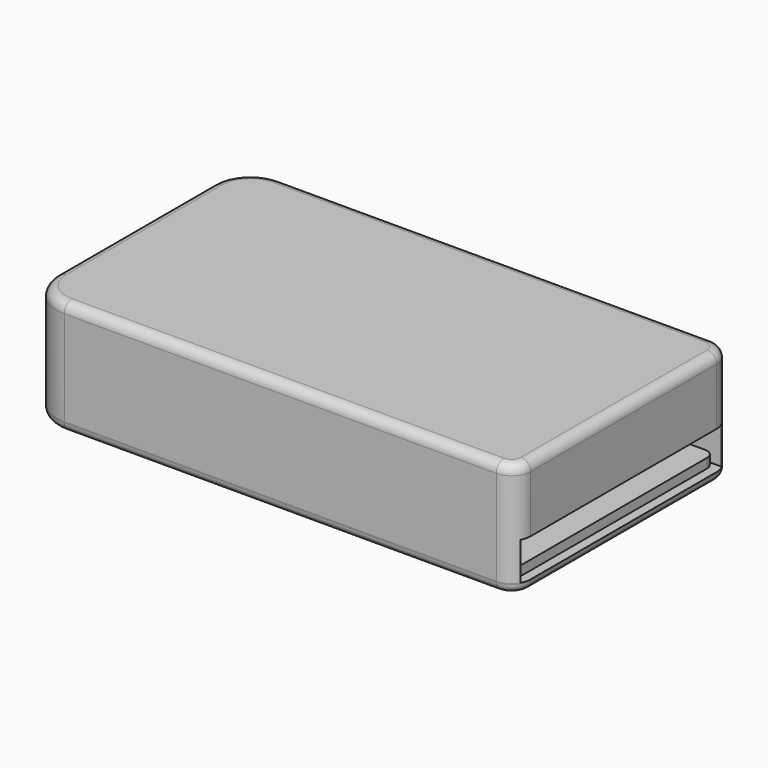
from build123d import *

# Parameters (mm, degrees)
PAD_DEPTH       = 10
THICKNESS_T     = 1
SKETCH001_W     = 10
SKETCH001_H     = 7
PAD001_DEPTH    = 1.6
SKETCH002_W     = 24.5
SKETCH002_H     = 4
POCKET_DEPTH    = 1
POCKET001_DEPTH = 5
SKETCH006_W     = 26.5
SKETCH006_H     = 4
POCKET002_DEPTH = 5
PAD002_DEPTH    = 3
PAD003_DEPTH    = 1
SKETCH007_W     = 41.5
SKETCH007_H     = 20.5
POCKET003_DEPTH = 3
SKETCH008_W     = 5
SKETCH008_H     = 26.5
POCKET004_DEPTH = 2
FILLET_R        = 1.8
FILLET001_R     = 0.9


with BuildPart() as bottom:
    # Sketch → Pad (new body)
    with BuildSketch(Plane.XY):
        with BuildLine():
            Line((-21.25, 14.75), (24.25, 14.75))
            ThreePointArc((25.25, 13.75), (24.957107, 14.457107), (24.25, 14.75))
            Line((25.25, 13.75), (25.25, -10.75))
            ThreePointArc((24.25, -11.75), (24.957107, -11.457107), (25.25, -10.75))
            Line((24.25, -11.75), (-21.25, -11.75))
            ThreePointArc((-24.25, -8.75), (-23.37132, -10.87132), (-21.25, -11.75))
            Line((-24.25, -8.75), (-24.25, 11.75))
            ThreePointArc((-21.25, 14.75), (-23.37132, 13.87132), (-24.25, 11.75))
        make_face()
    extrude(amount=PAD_DEPTH)

    # Thickness
    thickness_openings = [bottom.faces().sort_by_distance(p)[0] for p in [
        (0.563092, 1.5, 0),
    ]]
    offset(amount=THICKNESS_T, openings=thickness_openings)

    # Sketch001 (on Face9 of Thickness) → Pad001 (join)
    with BuildSketch(Plane(origin=(0, 0, 10), x_dir=(1, 0, 0), z_dir=(0, 0, -1))):
        with BuildLine():
            Line((-21.25, 11.75), (-17.25, 11.75))
            Line((-17.25, 11.75), (-17.25, 4.75))
            Line((-17.25, 4.75), (-24.25, 4.75))
            Line((-24.25, 4.75), (-24.25, 8.75))
            ThreePointArc((-21.25, 11.75), (-23.37132, 10.87132), (-24.25, 8.75))
        make_face()
        with BuildLine():
            Line((-24.25, -7.75), (-17.25, -7.75))
            Line((-17.25, -7.75), (-17.25, -14.75))
            Line((-17.25, -14.75), (-21.25, -14.75))
            ThreePointArc((-24.25, -11.75), (-23.37132, -13.87132), (-21.25, -14.75))
            Line((-24.25, -11.75), (-24.25, -7.75))
        make_face()
        with Locations((17.25, -11.25)):
            Rectangle(SKETCH001_W, SKETCH001_H)
        with Locations((17.25, 8.25)):
            Rectangle(SKETCH001_W, SKETCH001_H)
    extrude(amount=PAD001_DEPTH)

    # Sketch002 (on Face11 of Pad001) → Pocket (cut)
    with BuildSketch(Plane(origin=(25.25, 0, 0), x_dir=(0, -1, 0), z_dir=(-1, 0, 0))):
        with Locations((-1.5, 2)):
            Rectangle(SKETCH002_W, SKETCH002_H)
    extrude(amount=-POCKET_DEPTH, mode=Mode.SUBTRACT)

    # Sketch003 (on Face11 of Pocket) → Pocket001 (cut)
    with BuildSketch(Plane.YZ.offset(-24.25)):
        with BuildLine():
            ThreePointArc((-1.5, 6.5), (-3.1, 4.9), (-1.5, 3.3))
            Line((-1.5, 3.3), (4.5, 3.3))
            ThreePointArc((4.5, 3.3), (6.1, 4.9), (4.5, 6.5))
            Line((4.5, 6.5), (-1.5, 6.5))
        make_face()
    extrude(amount=-POCKET001_DEPTH, mode=Mode.SUBTRACT)

    # Sketch006 (on Face40 of Pocket001) → Pocket002 (cut)
    with BuildSketch(Plane.YZ.offset(26.25)):
        with Locations((1.5, 2)):
            Rectangle(SKETCH006_W, SKETCH006_H)
    extrude(amount=-POCKET002_DEPTH, mode=Mode.SUBTRACT)


with BuildPart() as top:
    # Sketch004 → Pad002 (new body)
    with BuildSketch(Plane.XY):
        with BuildLine():
            Line((-21.25, 14.75), (24.25, 14.75))
            ThreePointArc((25.25, 13.75), (24.957107, 14.457107), (24.25, 14.75))
            Line((25.25, 13.75), (25.25, -10.75))
            ThreePointArc((24.25, -11.75), (24.957107, -11.457107), (25.25, -10.75))
            Line((24.25, -11.75), (-21.25, -11.75))
            ThreePointArc((-24.25, -8.75), (-23.37132, -10.87132), (-21.25, -11.75))
            Line((-24.25, -8.75), (-24.25, 11.75))
            ThreePointArc((-21.25, 14.75), (-23.37132, 13.87132), (-24.25, 11.75))
        make_face()
    extrude(amount=PAD002_DEPTH)

    # Sketch005 (on Face9 of Pad002) → Pad003 (join)
    with BuildSketch(Plane(origin=(0, 0, 0), x_dir=(1, 0, 0), z_dir=(0, 0, -1))):
        with BuildLine():
            Line((-21.25, 12.75), (24.25, 12.75))
            ThreePointArc((26.25, 10.75), (25.664214, 12.164214), (24.25, 12.75))
            Line((26.25, 10.75), (26.25, -13.75))
            ThreePointArc((24.25, -15.75), (25.664214, -15.164214), (26.25, -13.75))
            Line((24.25, -15.75), (-21.25, -15.75))
            ThreePointArc((-25.25, -11.75), (-24.078427, -14.578427), (-21.25, -15.75))
            Line((-25.25, -11.75), (-25.25, 8.75))
            ThreePointArc((-21.25, 12.75), (-24.078427, 11.578427), (-25.25, 8.75))
        make_face()
    extrude(amount=PAD003_DEPTH)

    # Sketch007 (on Face19 of Pad003) → Pocket003 (cut)
    with BuildSketch(Plane.XY.offset(3)):
        with Locations((-0.5, 1.5)):
            Rectangle(SKETCH007_W, SKETCH007_H)
    extrude(amount=-POCKET003_DEPTH, mode=Mode.SUBTRACT)

    # Sketch008 (on Face19 of Pocket003) → Pocket004 (cut)
    with BuildSketch(Plane.XY.offset(3)):
        with Locations((22.75, 1.5)):
            Rectangle(SKETCH008_W, SKETCH008_H)
    extrude(amount=-POCKET004_DEPTH, mode=Mode.SUBTRACT)

    # Fillet
    fillet_edges = [top.edges().sort_by_distance(p)[0] for p in [
        (20.25, 13.25, 3),
        (20.25, -10.25, 3),
    ]]
    fillet(fillet_edges, radius=FILLET_R)

    # Fillet001
    fillet001_edges = [top.edges().sort_by_distance(p)[0] for p in [
        (1.5, 15.75, -1),
    ]]
    fillet(fillet001_edges, radius=FILLET001_R)


solid = Compound([bottom.part, top.part])
